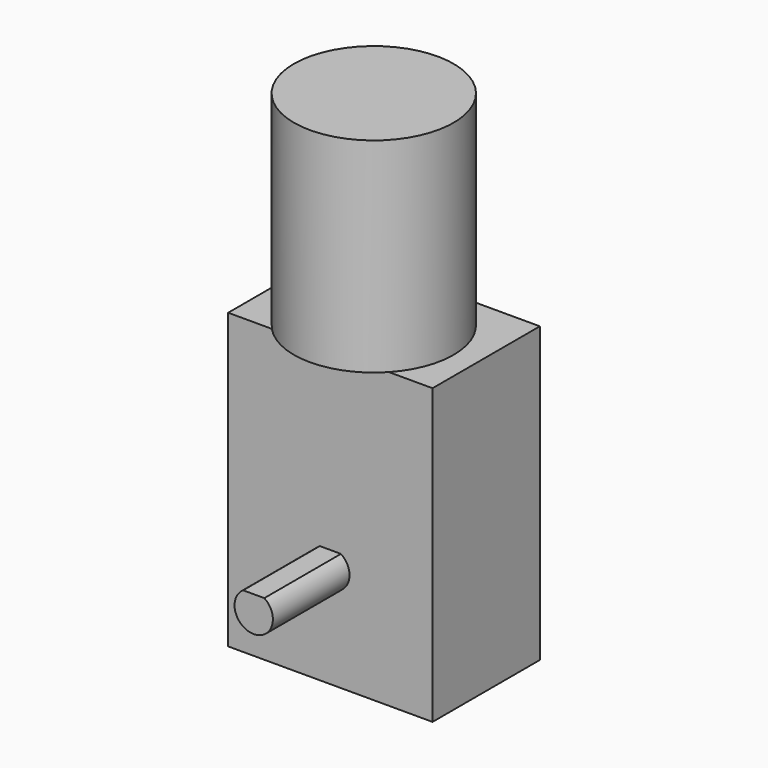
from build123d import *

# Parameters (mm, degrees)
SKETCH029_W             = 46
SKETCH029_H             = 32
PAD013_DEPTH            = 21
SKETCH030_R             = 12.5
PAD014_DEPTH            = 32
PAD015_DEPTH            = 15
PAD016_DEPTH            = 15
BODY007_PITCH_ANGLE     = -90
BODY007_PLACEMENT_ANGLE = 90


with BuildPart() as part:
    # Sketch029 → Pad013 (new body)
    with BuildSketch(Plane.XY):
        with Locations((7, 0)):
            Rectangle(SKETCH029_W, SKETCH029_H)
    extrude(amount=PAD013_DEPTH)

    # Sketch030 (on Face2 of Pad013) → Pad014 (join)
    with BuildSketch(Plane.YZ.offset(30)):
        with Locations((0, 12.5)):
            Circle(SKETCH030_R)
    extrude(amount=PAD014_DEPTH)

    # Sketch031 (on Face4 of Pad014) → Pad015 (join)
    with BuildSketch(Plane(origin=(0, 0, 0), x_dir=(1, 0, 0), z_dir=(0, 0, -1))):
        with BuildLine():
            ThreePointArc((2.5, 1.658312), (-3, 0), (2.5, -1.658312))
            Line((2.5, 1.658312), (2.5, -1.658312))
        make_face()
    extrude(amount=PAD015_DEPTH)

    # Sketch032 (on Face5 of Pad015) → Pad016 (join)
    with BuildSketch(Plane.XY.offset(21)):
        with BuildLine():
            ThreePointArc((2.5, 1.658312), (-3, 0), (2.5, -1.658312))
            Line((2.5, 1.658312), (2.5, -1.658312))
        make_face()
    extrude(amount=PAD016_DEPTH)


with BuildPart() as part_1:
    # Body007 pitch: moved
    add(part.part.rotate(Axis((0, 0, 0), (0, 1, 0)), BODY007_PITCH_ANGLE))


with BuildPart() as part_2:
    # Body007 placement: moved
    add(part_1.part.moved(Location((0, -24, 0))).rotate(Axis((0, -24, 0), (0, 0, 1)), BODY007_PLACEMENT_ANGLE))


solid = part_2.part
